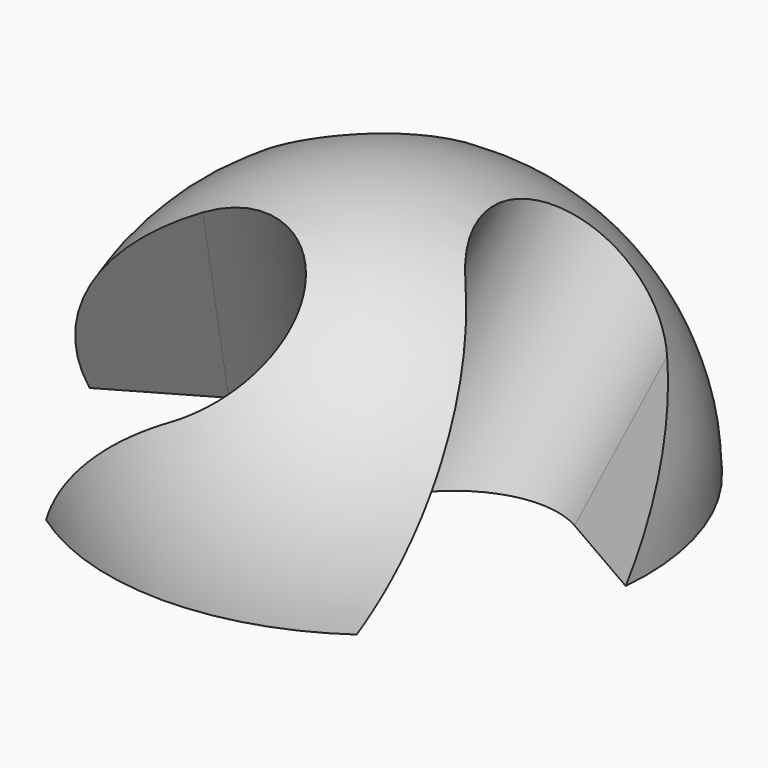
from build123d import *

# Parameters (mm, degrees)
F3_W           = 110.9925583005
F3_H           = 44.4556474686
F4_DEPTH       = 40
F4_DEPTH_BACK  = 40
F7_DEPTH       = 60
F7_DEPTH_BACK  = 25
F12_DEPTH      = 60
F12_DEPTH_BACK = 60
F16_DEPTH      = 60
F16_DEPTH_BACK = 60


with BuildPart() as f2:
    # F0 (on Top) → F2 (revolve)
    with BuildSketch(Plane.XY):
        with BuildLine():
            Line((0, 35), (0, -35))
            ThreePointArc((0, -35), (35, 0), (0, 35))
        make_face()
    revolve(axis=Axis((0, 0, 0), (0, -1, 0)))

    # F3 (on Front) → F4 (cut, two sides)
    with BuildSketch(Plane.XZ) as f4_sk:
        with Locations((0.8793435991, -22.2278237343)):
            Rectangle(F3_W, F3_H)
    extrude(amount=-F4_DEPTH, mode=Mode.SUBTRACT)
    extrude(f4_sk.sketch, amount=F4_DEPTH_BACK, mode=Mode.SUBTRACT)

    # F6 (on line) → F7 (cut, two sides)
    with BuildSketch(Plane(origin=(0, 0, 0), x_dir=(0.8660254038, 0, 0.5), z_dir=(0.5, 0, -0.8660254038))) as f7_sk:
        with BuildLine():
            Line((12.7, -40.8236384392), (12.7, -17.7161854768))
            ThreePointArc((12.7, -17.7161854768), (0, -5.0161854768), (-12.7, -17.7161854768))
            Line((-12.7, -17.7161854768), (-12.7, -40.8236384392))
            Line((-12.7, -40.8236384392), (12.7, -40.8236384392))
        make_face()
    extrude(amount=-F7_DEPTH, mode=Mode.SUBTRACT)
    extrude(f7_sk.sketch, amount=F7_DEPTH_BACK, mode=Mode.SUBTRACT)

    # F11 (on line) → F12 (cut, two sides)
    with BuildSketch(Plane(origin=(0, 0, 0), x_dir=(0.9682458366, 0.1118033989, -0.2236067977), z_dir=(-0.25, 0.4330127019, -0.8660254038))) as f12_sk:
        with BuildLine():
            Line((-36.9845643478, 4.2932505168), (-21.3320885053, -3.5329874044))
            ThreePointArc((-21.3320885053, -3.5329874044), (-4.2932505168, 2.1466252584), (-9.9728631796, 19.1854632469))
            Line((-9.9728631796, 19.1854632469), (-25.6253390221, 27.0117011682))
            Line((-25.6253390221, 27.0117011682), (-36.9845643478, 4.2932505168))
        make_face()
    extrude(amount=-F12_DEPTH, mode=Mode.SUBTRACT)
    extrude(f12_sk.sketch, amount=F12_DEPTH_BACK, mode=Mode.SUBTRACT)

    # F15 (on line) → F16 (cut, two sides)
    with BuildSketch(Plane(origin=(0, 0, 0), x_dir=(0.9682458366, -0.1118033989, -0.2236067977), z_dir=(-0.25, -0.4330127019, -0.8660254038))) as f16_sk:
        with BuildLine():
            Line((25.6253390221, 27.0117011682), (9.9728631796, 19.1854632469))
            ThreePointArc((9.9728631796, 19.1854632469), (4.2932505168, 2.1466252584), (21.3320885053, -3.5329874044))
            Line((21.3320885053, -3.5329874044), (36.9845643478, 4.2932505168))
            Line((36.9845643478, 4.2932505168), (25.6253390221, 27.0117011682))
        make_face()
    extrude(amount=-F16_DEPTH, mode=Mode.SUBTRACT)
    extrude(f16_sk.sketch, amount=F16_DEPTH_BACK, mode=Mode.SUBTRACT)


solid = f2.part
